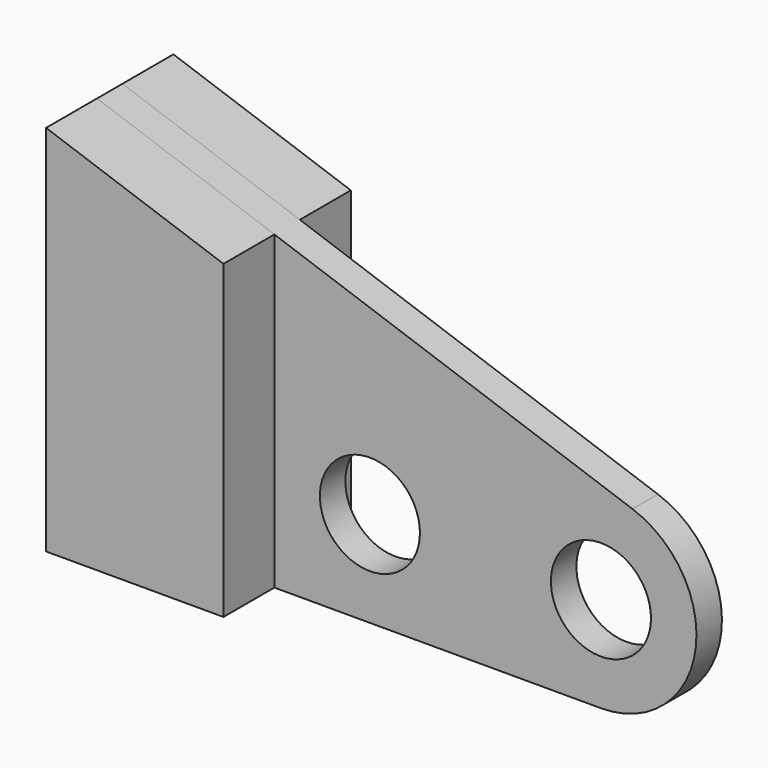
from build123d import *

# Parameters (mm, degrees)
F0_R     = 11
F1_DEPTH = 3.5
F3_DEPTH = 14


with BuildPart() as f1:
    # F0 (on Front) → F1 (new body, symmetric)
    with BuildSketch(Plane.XZ):
        with BuildLine():
            ThreePointArc((32.332994, 19.822553), (28.916134, 20.703546), (25.4, 21))
            Line((25.4, 21), (-85.4, 21))
            Line((-85.4, 21), (-85.4, -21))
            Line((-85.4, -21), (25.4, -21))
            ThreePointArc((25.4, -21), (46.103546, -3.516134), (32.332994, 19.822553))
        make_face()
        with Locations((-25.4, 0)):
            Circle(F0_R, mode=Mode.SUBTRACT)
        with Locations((25.4, 0)):
            Circle(F0_R, mode=Mode.SUBTRACT)
        with BuildLine():
            Line((-85.4, 21), (25.4, 21))
            ThreePointArc((25.4, 21), (28.916134, 20.703546), (32.332994, 19.822553))
            Line((32.332994, 19.822553), (-85.4, 61))
            Line((-85.4, 61), (-85.4, 21))
        make_face()
    extrude(amount=F1_DEPTH, both=True)


with BuildPart() as f3:
    # F2 (on face) → F3 (new body)
    with BuildSketch(Plane.XZ.offset(3.5)):
        Polygon((-46.4, 47.35964), (-85.4, 61), (-85.4, -21), (-46.4, -21), align=None)
    extrude(amount=F3_DEPTH)


with BuildPart() as f4_1:
    # F4: instance of F3
    add(f3.part.mirror(Plane.XZ))


solid = Compound([f1.part, f3.part, f4_1.part])
